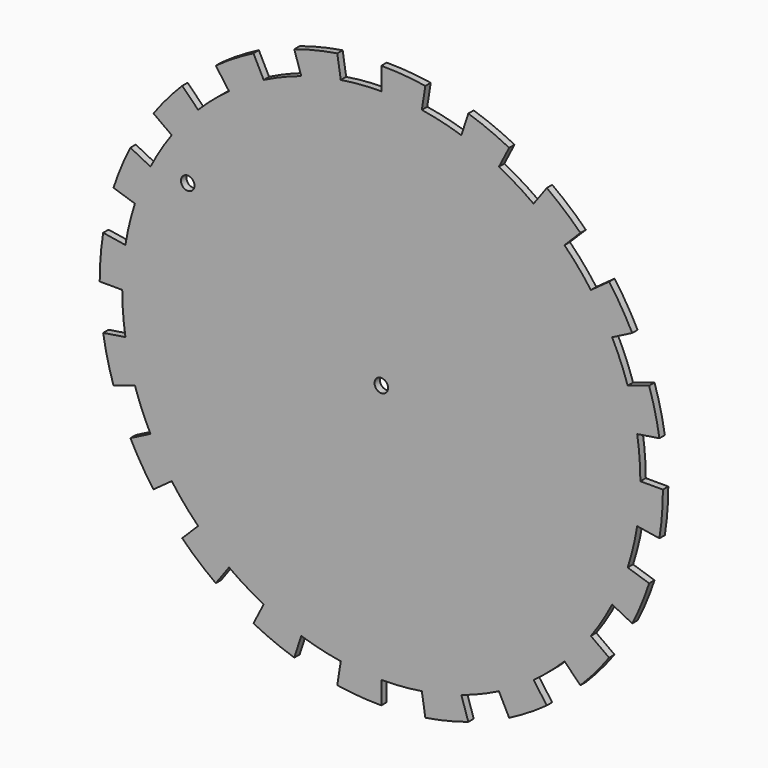
from build123d import *

# Parameters (mm, degrees)
F0_R     = 3
F1_DEPTH = 3


with BuildPart() as f1:
    # F0 (on Front) → F1 (new body)
    with BuildSketch(Plane.XZ):
        with BuildLine():
            Line((17.989963, 113.584159), (19.554308, 123.461043))
            ThreePointArc((19.554308, 123.461043), (9.807387, 124.614667), (0, 125))
            Line((0, 125), (0, 115))
            ThreePointArc((0, 115), (-9.022796, 114.645493), (-17.989963, 113.584159))
            Line((-17.989963, 113.584159), (-19.554308, 123.461043))
            ThreePointArc((-19.554308, 123.461043), (-29.18067, 121.54624), (-38.627124, 118.882065))
            Line((-38.627124, 118.882065), (-35.536954, 109.371499))
            ThreePointArc((-35.536954, 109.371499), (-44.008595, 106.246146), (-52.208907, 102.46575))
            Line((-52.208907, 102.46575), (-56.748812, 111.375816))
            ThreePointArc((-56.748812, 111.375816), (-65.312321, 106.580021), (-73.473157, 101.127124))
            Line((-73.473157, 101.127124), (-67.595304, 93.036954))
            ThreePointArc((-67.595304, 93.036954), (-74.686526, 87.446686), (-81.31728, 81.31728))
            Line((-81.31728, 81.31728), (-88.388348, 88.388348))
            ThreePointArc((-88.388348, 88.388348), (-95.050746, 81.181006), (-101.127124, 73.473157))
            Line((-101.127124, 73.473157), (-93.036954, 67.595304))
            ThreePointArc((-93.036954, 67.595304), (-98.053619, 60.087335), (-102.46575, 52.208907))
            ThreePointArc((-102.46575, 52.208907), (-106.246146, 44.008595), (-109.371499, 35.536954))
            ThreePointArc((-109.371499, 35.536954), (-111.822541, 26.846217), (-113.584159, 17.989963))
            ThreePointArc((-113.584159, 17.989963), (-114.645493, 9.022796), (-115, 0))
            ThreePointArc((-115, 0), (-114.645493, -9.022796), (-113.584159, -17.989963))
            ThreePointArc((-113.584159, -17.989963), (-111.822541, -26.846217), (-109.371499, -35.536954))
            ThreePointArc((-109.371499, -35.536954), (-106.246146, -44.008595), (-102.46575, -52.208907))
            ThreePointArc((-102.46575, -52.208907), (-98.053619, -60.087335), (-93.036954, -67.595304))
            ThreePointArc((-93.036954, -67.595304), (-87.446686, -74.686526), (-81.31728, -81.31728))
            ThreePointArc((-81.31728, -81.31728), (-74.686526, -87.446686), (-67.595304, -93.036954))
            ThreePointArc((-67.595304, -93.036954), (-60.087335, -98.053619), (-52.208907, -102.46575))
            ThreePointArc((-52.208907, -102.46575), (-44.008595, -106.246146), (-35.536954, -109.371499))
            ThreePointArc((-35.536954, -109.371499), (-26.846217, -111.822541), (-17.989963, -113.584159))
            ThreePointArc((-17.989963, -113.584159), (-9.022796, -114.645493), (0, -115))
            ThreePointArc((0, -115), (9.022796, -114.645493), (17.989963, -113.584159))
            ThreePointArc((17.989963, -113.584159), (26.846217, -111.822541), (35.536954, -109.371499))
            ThreePointArc((35.536954, -109.371499), (44.008595, -106.246146), (52.208907, -102.46575))
            ThreePointArc((52.208907, -102.46575), (60.087335, -98.053619), (67.595304, -93.036954))
            ThreePointArc((67.595304, -93.036954), (74.686526, -87.446686), (81.31728, -81.31728))
            ThreePointArc((81.31728, -81.31728), (87.446686, -74.686526), (93.036954, -67.595304))
            ThreePointArc((93.036954, -67.595304), (98.053619, -60.087335), (102.46575, -52.208907))
            ThreePointArc((102.46575, -52.208907), (106.246146, -44.008595), (109.371499, -35.536954))
            ThreePointArc((109.371499, -35.536954), (111.822541, -26.846217), (113.584159, -17.989963))
            ThreePointArc((113.584159, -17.989963), (114.645493, -9.022796), (115, 0))
            ThreePointArc((115, 0), (114.645493, 9.022796), (113.584159, 17.989963))
            ThreePointArc((113.584159, 17.989963), (111.822541, 26.846217), (109.371499, 35.536954))
            ThreePointArc((109.371499, 35.536954), (106.246146, 44.008595), (102.46575, 52.208907))
            ThreePointArc((102.46575, 52.208907), (98.053619, 60.087335), (93.036954, 67.595304))
            ThreePointArc((93.036954, 67.595304), (87.446686, 74.686526), (81.31728, 81.31728))
            ThreePointArc((81.31728, 81.31728), (74.686526, 87.446686), (67.595304, 93.036954))
            ThreePointArc((67.595304, 93.036954), (60.087335, 98.053619), (52.208907, 102.46575))
            Line((52.208907, 102.46575), (56.748812, 111.375816))
            ThreePointArc((56.748812, 111.375816), (47.835429, 115.484942), (38.627124, 118.882065))
            Line((38.627124, 118.882065), (35.536954, 109.371499))
            ThreePointArc((35.536954, 109.371499), (26.846217, 111.822541), (17.989963, 113.584159))
        make_face()
        with Locations((-85.932023, 51.143791)):
            Circle(F0_R, mode=Mode.SUBTRACT)
        with BuildLine():
            ThreePointArc((0.469303, 2.963065), (2.281218, 1.948344), (3, 0))
            ThreePointArc((3, 0), (-2.12132, -2.12132), (0, 3))
            ThreePointArc((0, 3), (0.235377, 2.990752), (0.469303, 2.963065))
        make_face(mode=Mode.SUBTRACT)
        with BuildLine():
            Line((73.473157, 101.127124), (67.595304, 93.036954))
            ThreePointArc((67.595304, 93.036954), (74.686526, 87.446686), (81.31728, 81.31728))
            Line((81.31728, 81.31728), (88.388348, 88.388348))
            ThreePointArc((88.388348, 88.388348), (81.181006, 95.050746), (73.473157, 101.127124))
        make_face()
        with BuildLine():
            Line((101.127124, 73.473157), (93.036954, 67.595304))
            ThreePointArc((93.036954, 67.595304), (98.053619, 60.087335), (102.46575, 52.208907))
            Line((102.46575, 52.208907), (111.375816, 56.748812))
            ThreePointArc((111.375816, 56.748812), (106.580021, 65.312321), (101.127124, 73.473157))
        make_face()
        with BuildLine():
            Line((118.882065, 38.627124), (109.371499, 35.536954))
            ThreePointArc((109.371499, 35.536954), (111.822541, 26.846217), (113.584159, 17.989963))
            Line((113.584159, 17.989963), (123.461043, 19.554308))
            ThreePointArc((123.461043, 19.554308), (121.54624, 29.18067), (118.882065, 38.627124))
        make_face()
        with BuildLine():
            Line((125, 0), (115, 0))
            ThreePointArc((115, 0), (114.645493, -9.022796), (113.584159, -17.989963))
            Line((113.584159, -17.989963), (123.461043, -19.554308))
            ThreePointArc((123.461043, -19.554308), (124.614667, -9.807387), (125, 0))
        make_face()
        with BuildLine():
            Line((118.882065, -38.627124), (109.371499, -35.536954))
            ThreePointArc((109.371499, -35.536954), (106.246146, -44.008595), (102.46575, -52.208907))
            Line((102.46575, -52.208907), (111.375816, -56.748812))
            ThreePointArc((111.375816, -56.748812), (115.484942, -47.835429), (118.882065, -38.627124))
        make_face()
        with BuildLine():
            ThreePointArc((-109.371499, 35.536954), (-106.246146, 44.008595), (-102.46575, 52.208907))
            Line((-102.46575, 52.208907), (-111.375816, 56.748812))
            ThreePointArc((-111.375816, 56.748812), (-115.484942, 47.835429), (-118.882065, 38.627124))
            Line((-118.882065, 38.627124), (-109.371499, 35.536954))
        make_face()
        with BuildLine():
            Line((101.127124, -73.473157), (93.036954, -67.595304))
            ThreePointArc((93.036954, -67.595304), (87.446686, -74.686526), (81.31728, -81.31728))
            Line((81.31728, -81.31728), (88.388348, -88.388348))
            ThreePointArc((88.388348, -88.388348), (95.050746, -81.181006), (101.127124, -73.473157))
        make_face()
        with BuildLine():
            ThreePointArc((-115, 0), (-114.645493, 9.022796), (-113.584159, 17.989963))
            Line((-113.584159, 17.989963), (-123.461043, 19.554308))
            ThreePointArc((-123.461043, 19.554308), (-124.614667, 9.807387), (-125, 0))
            Line((-125, 0), (-115, 0))
        make_face()
        with BuildLine():
            Line((73.473157, -101.127124), (67.595304, -93.036954))
            ThreePointArc((67.595304, -93.036954), (60.087335, -98.053619), (52.208907, -102.46575))
            Line((52.208907, -102.46575), (56.748812, -111.375816))
            ThreePointArc((56.748812, -111.375816), (65.312321, -106.580021), (73.473157, -101.127124))
        make_face()
        with BuildLine():
            ThreePointArc((-109.371499, -35.536954), (-111.822541, -26.846217), (-113.584159, -17.989963))
            Line((-113.584159, -17.989963), (-123.461043, -19.554308))
            ThreePointArc((-123.461043, -19.554308), (-121.54624, -29.18067), (-118.882065, -38.627124))
            Line((-118.882065, -38.627124), (-109.371499, -35.536954))
        make_face()
        with BuildLine():
            Line((38.627124, -118.882065), (35.536954, -109.371499))
            ThreePointArc((35.536954, -109.371499), (26.846217, -111.822541), (17.989963, -113.584159))
            Line((17.989963, -113.584159), (19.554308, -123.461043))
            ThreePointArc((19.554308, -123.461043), (29.18067, -121.54624), (38.627124, -118.882065))
        make_face()
        with BuildLine():
            ThreePointArc((-93.036954, -67.595304), (-98.053619, -60.087335), (-102.46575, -52.208907))
            Line((-102.46575, -52.208907), (-111.375816, -56.748812))
            ThreePointArc((-111.375816, -56.748812), (-106.580021, -65.312321), (-101.127124, -73.473157))
            Line((-101.127124, -73.473157), (-93.036954, -67.595304))
        make_face()
        with BuildLine():
            Line((0, -125), (0, -115))
            ThreePointArc((0, -115), (-9.022796, -114.645493), (-17.989963, -113.584159))
            Line((-17.989963, -113.584159), (-19.554308, -123.461043))
            ThreePointArc((-19.554308, -123.461043), (-9.807387, -124.614667), (0, -125))
        make_face()
        with BuildLine():
            ThreePointArc((-67.595304, -93.036954), (-74.686526, -87.446686), (-81.31728, -81.31728))
            Line((-81.31728, -81.31728), (-88.388348, -88.388348))
            ThreePointArc((-88.388348, -88.388348), (-81.181006, -95.050746), (-73.473157, -101.127124))
            Line((-73.473157, -101.127124), (-67.595304, -93.036954))
        make_face()
        with BuildLine():
            Line((-38.627124, -118.882065), (-35.536954, -109.371499))
            ThreePointArc((-35.536954, -109.371499), (-44.008595, -106.246146), (-52.208907, -102.46575))
            Line((-52.208907, -102.46575), (-56.748812, -111.375816))
            ThreePointArc((-56.748812, -111.375816), (-47.835429, -115.484942), (-38.627124, -118.882065))
        make_face()
    extrude(amount=F1_DEPTH)


solid = f1.part
